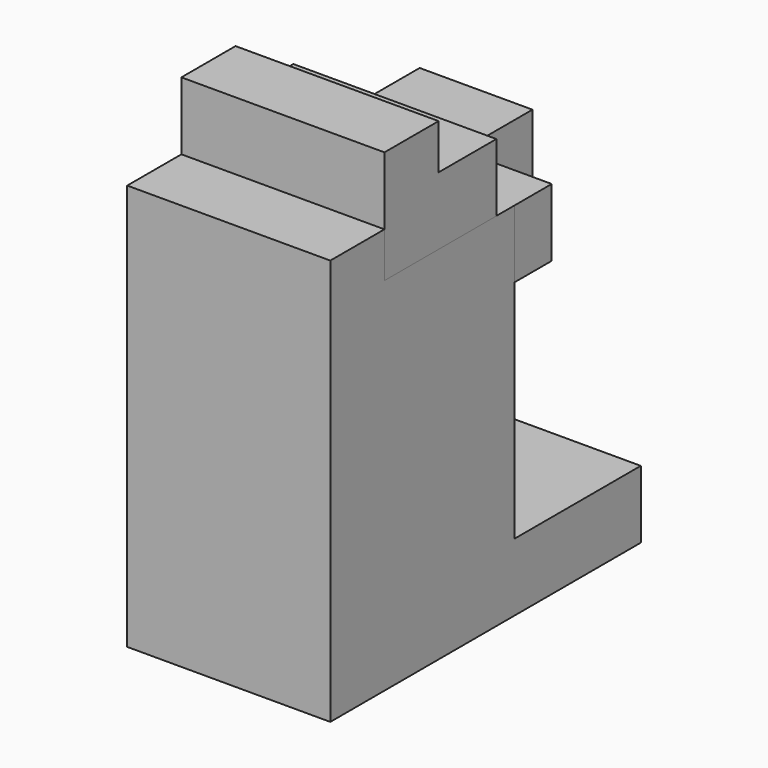
from build123d import *

# Parameters (mm, degrees)
F1_DEPTH = 22.5
F2_W     = 10
F2_H     = 9.8351926783
F3_DEPTH = 25
F5_DEPTH = 22.5


with BuildPart() as f1:
    # F0 (on Right) → F1 (new body)
    with BuildSketch(Plane.YZ):
        Polygon((0, 20), (0, 0), (33, 0), (33, 7.5), (15.5, 7.5), (15.5, 15), (7.5, 15), (7.5, 20), align=None)
    extrude(amount=F1_DEPTH)

    # F2 (on face) → F3 (cut)
    with BuildSketch(Plane.XY.offset(7.5)):
        with Locations((17.5, 28.0824036609)):
            Rectangle(F2_W, F2_H)
    extrude(amount=-F3_DEPTH, mode=Mode.SUBTRACT)


with BuildPart() as f5:
    # F4 (on Right) → F5 (new body)
    with BuildSketch(Plane.YZ):
        Polygon((-7.5, 12.491991818), (-7.5, -32.508008182), (35.5, -32.508008182), (35.5, -25.008008182), (18, -25.008008182), (18, 7.491991818), (0, 7.491991818), (0, 12.491991818), align=None)
    extrude(amount=F5_DEPTH)


solid = Compound([f1.part, f5.part])
